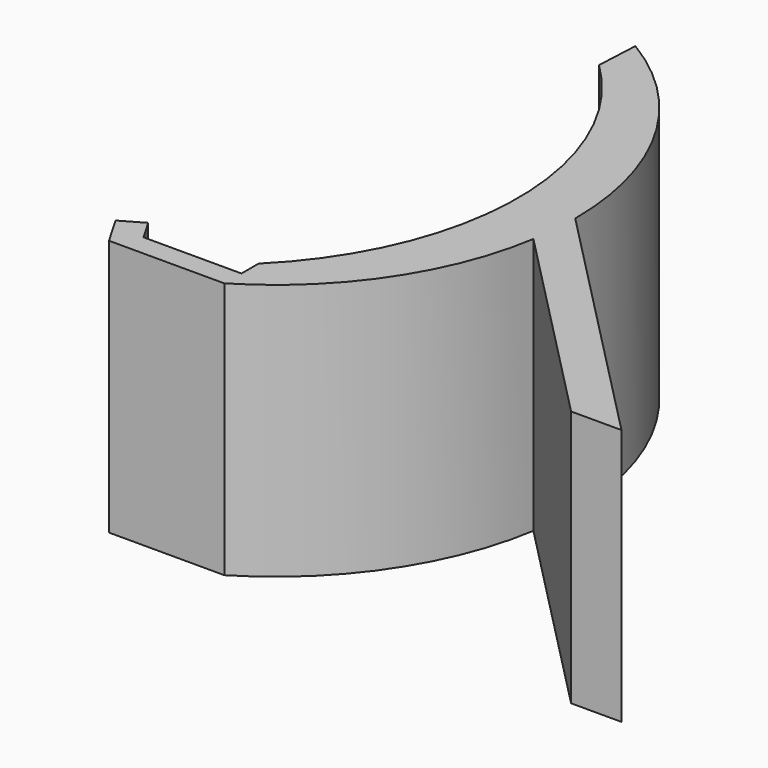
from build123d import *

# Parameters (mm, degrees)
F1_DEPTH = 76.2


with BuildPart() as f1:
    # F0 (on Top) → F1 (new body)
    with BuildSketch(Plane.XY):
        Polygon((-34.220355, 0), (-25.4, 0), (-29.066174, 6.35), (-32.732348, 12.7), (-39.347615, 8.880674), align=None)
        with BuildLine():
            Line((-25.4, 0), (0, 0))
            ThreePointArc((0, 0), (27.857567, 26.408715), (41.984283, 62.100452))
            ThreePointArc((41.984283, 62.100452), (42.827748, 69.127812), (43.109499, 76.2))
            ThreePointArc((43.109499, 76.2), (31.585159, 119.974618), (0, 152.4))
            Line((0, 152.4), (-0.635, 139.7))
            ThreePointArc((-0.635, 139.7), (26.365937, 76.333417), (0, 12.7))
            Line((0, 12.7), (0, 6.35))
            Line((0, 6.35), (-29.066174, 6.35))
            Line((-29.066174, 6.35), (-25.4, 0))
        make_face()
        with BuildLine():
            ThreePointArc((43.109499, 76.2), (42.827748, 69.127812), (41.984283, 62.100452))
            Line((41.984283, 62.100452), (102.847256, 0))
            Line((102.847256, 0), (117.791057, 0))
            Line((117.791057, 0), (43.109499, 76.2))
        make_face()
    extrude(amount=F1_DEPTH)


solid = f1.part
